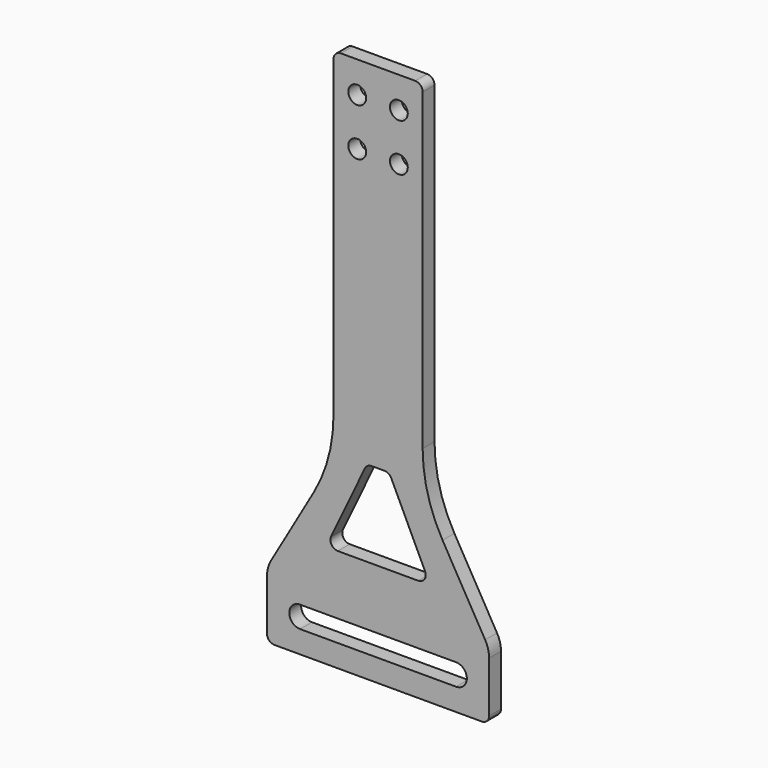
from build123d import *

# Parameters (mm, degrees)
F0_R     = 6
F1_DEPTH = 10
F3_DEPTH = 25


with BuildPart() as f1:
    # F0 (on Front) → F1 (new body)
    with BuildSketch(Plane.XZ):
        with BuildLine():
            ThreePointArc((-22.25, -10), (-20.785534, -13.535534), (-17.25, -15))
            Line((-17.25, -15), (122.25, -15))
            ThreePointArc((122.25, -15), (125.785534, -13.535534), (127.25, -10))
            Line((127.25, -10), (127.25, 24.141016))
            ThreePointArc((127.25, 24.141016), (126.568517, 29.317397), (124.570508, 34.141016))
            Line((124.570508, 34.141016), (95.89746, 83.804193))
            ThreePointArc((95.89746, 83.804193), (85.907417, 107.922288), (82.5, 133.804193))
            Line((82.5, 133.804193), (82.5, 345))
            ThreePointArc((82.5, 345), (81.035534, 348.535534), (77.5, 350))
            Line((77.5, 350), (27.5, 350))
            ThreePointArc((27.5, 350), (23.964466, 348.535534), (22.5, 345))
            Line((22.5, 345), (22.5, 133.804193))
            ThreePointArc((22.5, 133.804193), (19.092583, 107.922288), (9.10254, 83.804193))
            Line((9.10254, 83.804193), (-19.570508, 34.141016))
            ThreePointArc((-19.570508, 34.141016), (-21.568517, 29.317397), (-22.25, 24.141016))
            Line((-22.25, 24.141016), (-22.25, -10))
        make_face()
        with BuildLine():
            Line((105, 0), (0, 0))
            ThreePointArc((0, 0), (-7.25, 7.25), (0, 14.5))
            Line((0, 14.5), (105, 14.5))
            ThreePointArc((105, 14.5), (112.25, 7.25), (105, 0))
        make_face(mode=Mode.SUBTRACT)
        with Locations((38.5, 297)):
            Circle(F0_R, mode=Mode.SUBTRACT)
        with Locations((38.5, 329)):
            Circle(F0_R, mode=Mode.SUBTRACT)
        with Locations((66.5, 297)):
            Circle(F0_R, mode=Mode.SUBTRACT)
        with Locations((66.5, 329)):
            Circle(F0_R, mode=Mode.SUBTRACT)
    extrude(amount=F1_DEPTH)

    # F2 (on face) → F3 (cut)
    with BuildSketch(Plane.XZ.offset(10)):
        with BuildLine():
            ThreePointArc((48.157002, 112.25), (45.487577, 111.477785), (43.642699, 109.399668))
            Line((43.642699, 109.399668), (20.904604, 61.649668))
            ThreePointArc((20.904604, 61.649668), (21.191121, 56.830575), (25.418906, 54.5))
            Line((25.418906, 54.5), (79.581094, 54.5))
            ThreePointArc((79.581094, 54.5), (83.808879, 56.830575), (84.095396, 61.649668))
            Line((84.095396, 61.649668), (61.357301, 109.399668))
            ThreePointArc((61.357301, 109.399668), (59.512423, 111.477785), (56.842998, 112.25))
            Line((56.842998, 112.25), (48.157002, 112.25))
        make_face()
    extrude(amount=-F3_DEPTH, mode=Mode.SUBTRACT)


solid = f1.part
